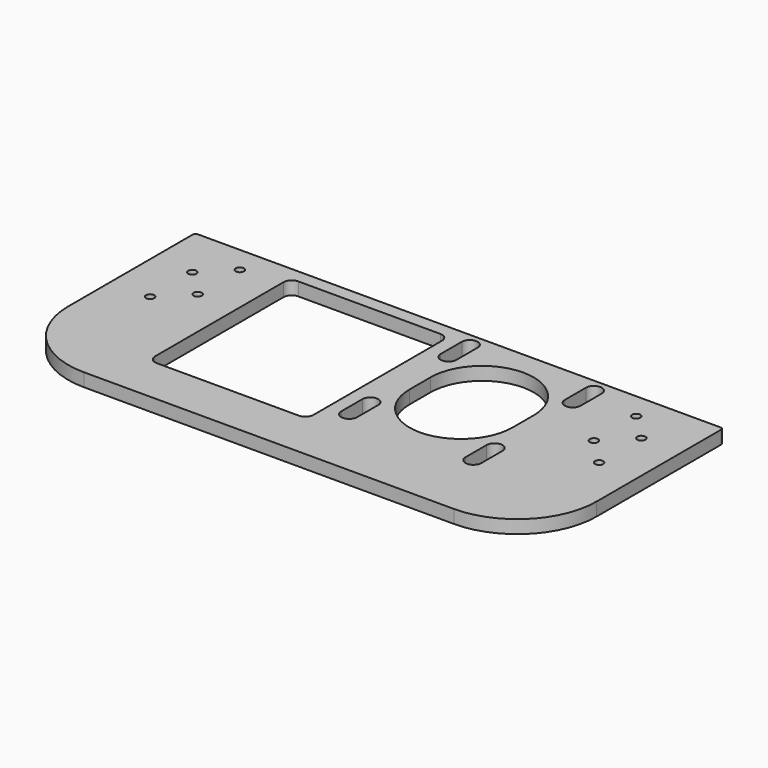
from build123d import *

# Parameters (mm, degrees)
SKETCH_W    = 200
SKETCH_H    = 90
SKETCH_R    = 1.5625
SKETCH_W_2  = 60
SKETCH_H_2  = 67
PAD_DEPTH   = 5
FILLET_R    = 30
FILLET001_R = 3.125
FILLET002_R = 1


with BuildPart() as part:
    # Sketch → Pad (new body)
    with BuildSketch(Plane.XY):
        with Locations((100, -45)):
            Rectangle(SKETCH_W, SKETCH_H)
        with Locations((175, -10)):
            Circle(SKETCH_R, mode=Mode.SUBTRACT)
        with Locations((175, -30)):
            Circle(SKETCH_R, mode=Mode.SUBTRACT)
        with Locations((185, -20)):
            Circle(SKETCH_R, mode=Mode.SUBTRACT)
        with Locations((185, -40)):
            Circle(SKETCH_R, mode=Mode.SUBTRACT)
        with Locations((25, -10)):
            Circle(SKETCH_R, mode=Mode.SUBTRACT)
        with Locations((25, -30)):
            Circle(SKETCH_R, mode=Mode.SUBTRACT)
        with Locations((15, -20)):
            Circle(SKETCH_R, mode=Mode.SUBTRACT)
        with Locations((15, -40)):
            Circle(SKETCH_R, mode=Mode.SUBTRACT)
        with Locations((70, -38.5)):
            Rectangle(SKETCH_W_2, SKETCH_H_2, mode=Mode.SUBTRACT)
        with BuildLine():
            ThreePointArc((158.0113, -4.9887), (155.0113, -1.9887), (152.0113, -4.9887))
            Line((152.0113, -4.9887), (152.0113, -14.9887))
            ThreePointArc((152.0113, -14.9887), (155.0113, -17.9887), (158.0113, -14.9887))
            Line((158.0113, -4.9887), (158.0113, -14.9887))
        make_face(mode=Mode.SUBTRACT)
        with BuildLine():
            ThreePointArc((151, -28.5), (131.5, -9), (112, -28.5))
            Line((112, -28.5), (112, -38.5))
            ThreePointArc((112, -38.5), (131.5, -58), (151, -38.5))
            Line((151, -28.5), (151, -38.5))
        make_face(mode=Mode.SUBTRACT)
        with BuildLine():
            ThreePointArc((158.0113, -52.0113), (155.0113, -49.0113), (152.0113, -52.0113))
            Line((152.0113, -52.0113), (152.0113, -62.0113))
            ThreePointArc((152.0113, -62.0113), (155.0113, -65.0113), (158.0113, -62.0113))
            Line((158.0113, -52.0113), (158.0113, -62.0113))
        make_face(mode=Mode.SUBTRACT)
        with BuildLine():
            ThreePointArc((110.9887, -52.0113), (107.9887, -49.0113), (104.9887, -52.0113))
            Line((104.9887, -52.0113), (104.9887, -62.0113))
            ThreePointArc((104.9887, -62.0113), (107.9887, -65.0113), (110.9887, -62.0113))
            Line((110.9887, -52.0113), (110.9887, -62.0113))
        make_face(mode=Mode.SUBTRACT)
        with BuildLine():
            ThreePointArc((110.9887, -4.9887), (107.9887, -1.9887), (104.9887, -4.9887))
            Line((104.9887, -4.9887), (104.9887, -14.9887))
            ThreePointArc((104.9887, -14.9887), (107.9887, -17.9887), (110.9887, -14.9887))
            Line((110.9887, -4.9887), (110.9887, -14.9887))
        make_face(mode=Mode.SUBTRACT)
    extrude(amount=PAD_DEPTH)

    # Fillet
    fillet_edges = [part.edges().sort_by_distance(p)[0] for p in [
        (200, -90, 2.5),
        (0, -90, 2.5),
    ]]
    fillet(fillet_edges, radius=FILLET_R)

    # Fillet001
    fillet001_edges = [part.edges().sort_by_distance(p)[0] for p in [
        (100, -5, 2.5),
        (100, -72, 2.5),
        (40, -72, 2.5),
        (40, -5, 2.5),
    ]]
    fillet(fillet001_edges, radius=FILLET001_R)

    # Fillet002
    fillet002_edges = [part.edges().sort_by_distance(p)[0] for p in [
        (200, 0, 2.5),
        (0, 0, 2.5),
    ]]
    fillet(fillet002_edges, radius=FILLET002_R)


solid = part.part
